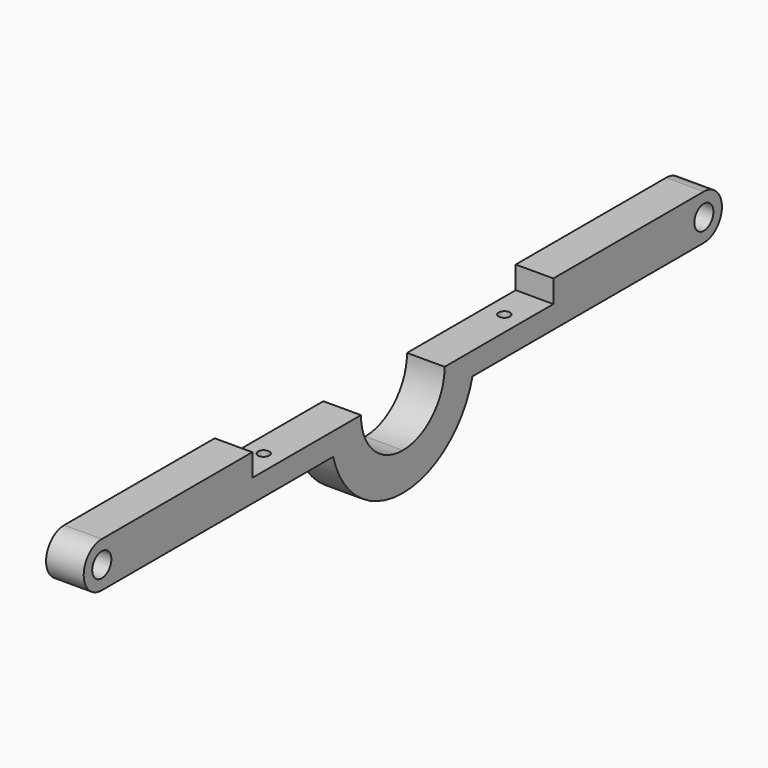
from build123d import *

# Parameters (mm, degrees)
F0_R     = 3.175
F1_DEPTH = 10
F2_R     = 1.5
F3_DEPTH = 25


with BuildPart() as f1:
    # F0 (on Right) → F1 (new body)
    with BuildSketch(Plane.YZ):
        with BuildLine():
            Line((0, -23.9), (0, -13.9))
            ThreePointArc((0, -13.9), (-9.828784, -9.828784), (-13.9, 0))
            Line((-13.9, 0), (-50, 0))
            Line((-50, 0), (-50, 6))
            Line((-50, 6), (-100, 6))
            ThreePointArc((-100, 6), (-106, 0), (-100, -6))
            Line((-100, -6), (-23.134606, -6))
            ThreePointArc((-23.134606, -6), (-14.625491, -18.902513), (0, -23.9))
        make_face()
        with Locations((-100, 0)):
            Circle(F0_R, mode=Mode.SUBTRACT)
        with BuildLine():
            ThreePointArc((13.9, 0), (9.828784, -9.828784), (0, -13.9))
            Line((0, -13.9), (0, -23.9))
            ThreePointArc((0, -23.9), (14.625491, -18.902513), (23.134606, -6))
            Line((23.134606, -6), (100, -6))
            ThreePointArc((100, -6), (106, 0), (100, 6))
            Line((100, 6), (50, 6))
            Line((50, 6), (50, 0))
            Line((50, 0), (13.9, 0))
        make_face()
        with Locations((100, 0)):
            Circle(F0_R, mode=Mode.SUBTRACT)
    extrude(amount=F1_DEPTH)

    # F2 (on face) → F3 (cut)
    with BuildSketch(Plane(origin=(0, 0, -6), x_dir=(1, 0, 0), z_dir=(0, 0, -1))):
        with Locations((5, 40)):
            Circle(F2_R)
        with Locations((5, -40)):
            Circle(F2_R)
    extrude(amount=-F3_DEPTH, mode=Mode.SUBTRACT)


solid = f1.part
